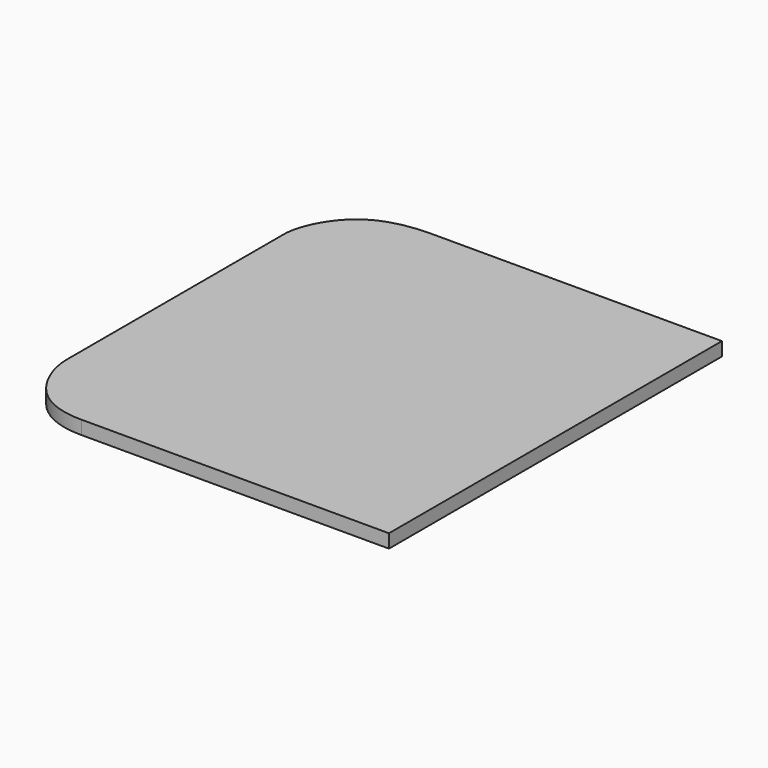
from build123d import *

# Parameters (mm, degrees)
F1_DEPTH = 19.05


with BuildPart() as f1:
    # F0 (on Top) → F1 (new body)
    with BuildSketch(Plane.XY):
        with BuildLine():
            Line((-165.1, -292.1), (266.7, -292.1))
            Line((266.7, -292.1), (266.7, 292.1))
            Line((266.7, 292.1), (-139.7, 292.1))
            add(Edge.make_bspline(
                [(-139.7, 292.1), (-170.1514260431, 292.1), (-234.7122440637, 281.888704933), (-266.7, 214.6192115481), (-266.7, 190.5)],
                knots=[0, 0, 0, 0, 0.5068792803, 1, 1, 1, 1], degree=3))
            Line((-266.7, 190.5), (-266.7, -190.5))
            add(Edge.make_bspline(
                [(-266.7, -190.5), (-266.7, -215.0819406019), (-243.2430178325, -274.2323700463), (-193.9634250991, -292.1), (-165.1, -292.1)],
                knots=[0, 0, 0, 0, 0.5052050274, 1, 1, 1, 1], degree=3))
        make_face()
    extrude(amount=F1_DEPTH)


solid = f1.part
